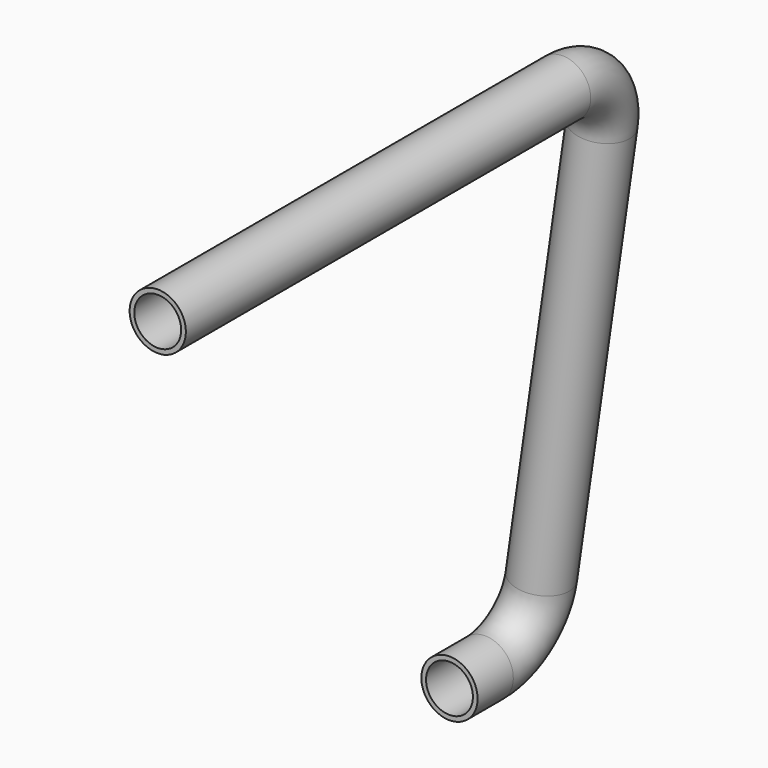
from build123d import *

# Parameters (mm, degrees)
F0_R   = 6
F0_R_2 = 5


with BuildPart() as f3:
    # F3: sweep along a path in F2
    with BuildLine(Plane(origin=(0, 0, 0), x_dir=(0, -1, 0), z_dir=(-0.989728, 0, 0.142961))) as f3_path:
        Line((0, 0), (-107.95, 0))
        ThreePointArc((-107.95, 0), (-116.930256, -3.719744), (-120.65, -12.7))
        Line((-120.65, -12.7), (-120.65, -102.786233))
        ThreePointArc((-120.65, -102.786233), (-116.930256, -111.766489), (-107.95, -115.486233))
        Line((-107.95, -115.486233), (-98.428674, -115.486233))
    # F0 (on Front) → F3 (sweep)
    with BuildSketch(Plane.XZ):
        Circle(F0_R)
        Circle(F0_R_2, mode=Mode.SUBTRACT)
    sweep(path=f3_path.line)


solid = f3.part
